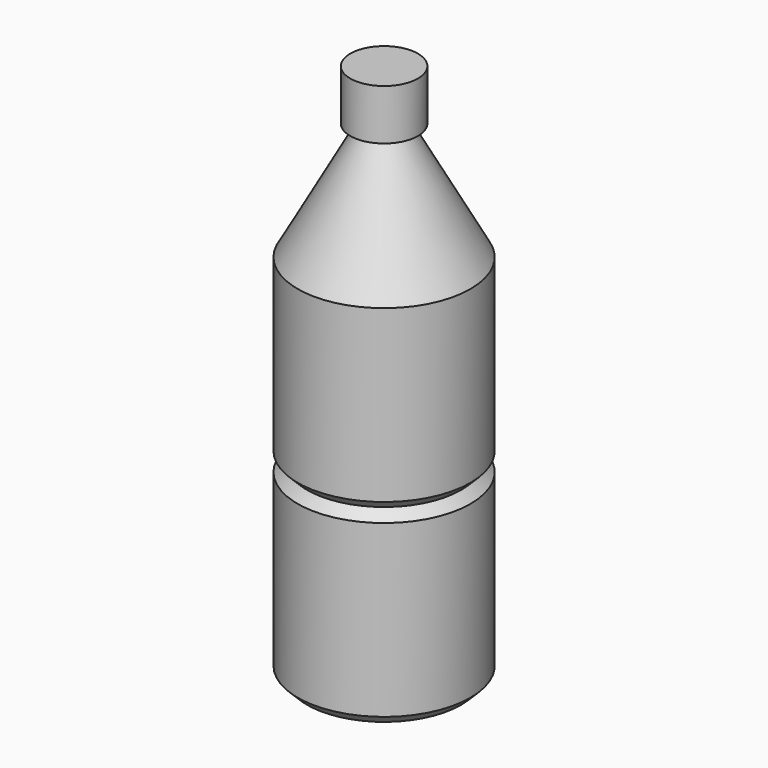
from build123d import *


with BuildPart() as f1:
    # F0 (on Front) → F1 (revolve)
    with BuildSketch(Plane.XZ):
        Polygon((49.634386, 42.745069), (0, 42.745069), (0, -110.233098), (0, -169.257939), (22.155412, -169.257939), (44.310823, -169.257939), (49.634386, -163.93438), (49.634386, -114.926297), (49.634386, -65.918215), (44.310823, -60.594656), (49.634386, -55.271097), align=None)
        Polygon((0, 110.266026), (0, 42.745069), (49.634386, 42.745069), (12.408596, 110.266026), align=None)
        Polygon((0, 139.329761), (0, 110.266026), (12.408596, 110.266026), (19.418076, 110.266026), (19.418076, 139.329761), align=None)
    revolve(axis=Axis((0, 0, -139.745519), (0, 0, 1)))


solid = f1.part
